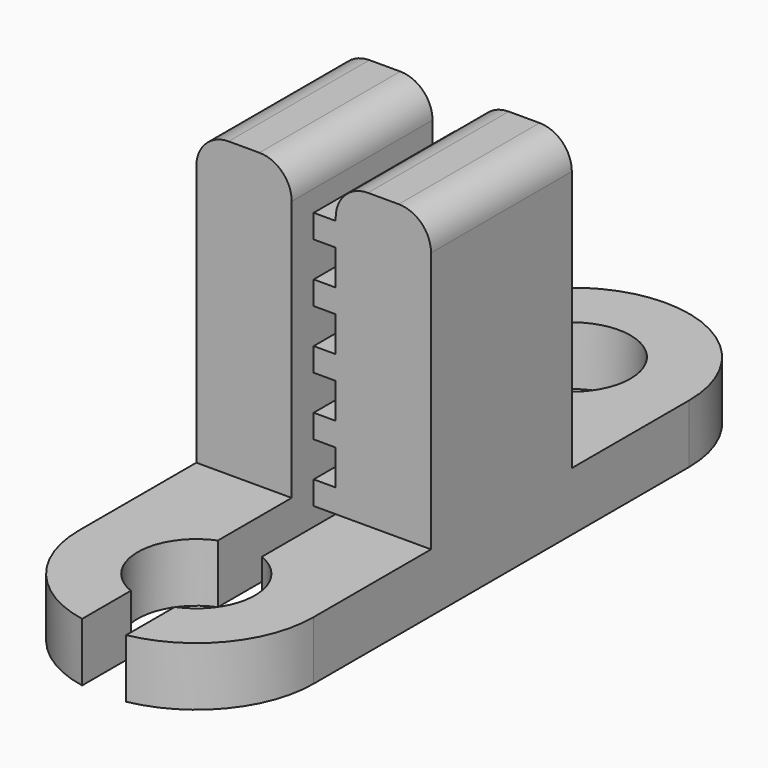
from build123d import *

# Parameters (mm, degrees)
SKETCH_R            = 2
PAD_DEPTH           = 2
SKETCH001_W         = 6
SKETCH001_H         = 10
PAD001_DEPTH        = 4
SKETCH002_W         = 1.5
SKETCH002_H         = 15.5
POCKET_DEPTH        = 2
POCKET001_DEPTH     = 3.5
LINEARPATTERN_COUNT = 7
LINEARPATTERN_PITCH = 2
FILLET_R            = 1.1


with BuildPart() as part:
    # Sketch → Pad (new body)
    with BuildSketch(Plane.XY):
        with BuildLine():
            ThreePointArc((4, 8), (0, 12), (-4, 8))
            Line((-4, 8), (-4, -8))
            ThreePointArc((-4, -8), (0, -12), (4, -8))
            Line((4, 8), (4, -8))
        make_face()
        with Locations((0, 8)):
            Circle(SKETCH_R, mode=Mode.SUBTRACT)
        with Locations((0, -8)):
            Circle(SKETCH_R, mode=Mode.SUBTRACT)
    extrude(amount=PAD_DEPTH)

    # Sketch001 → Pad001 (join, symmetric)
    with BuildSketch(Plane.YZ):
        with Locations((0, 7)):
            Rectangle(SKETCH001_W, SKETCH001_H)
    extrude(amount=PAD001_DEPTH, both=True)

    # Sketch002 → Pocket (cut)
    with BuildSketch(Plane.XY):
        with Locations((0, -4.25)):
            Rectangle(SKETCH002_W, SKETCH002_H)
    extrude(amount=POCKET_DEPTH, mode=Mode.SUBTRACT)

    # Sketch003 → Pocket001 (cut, symmetric)
    with BuildSketch(Plane.XZ):
        Polygon((0, -1.2), (0, -2), (-0.75, -2), (-0.75, 0), (0.75, 0), (0.75, -1.2), align=None)
    pocket001 = extrude(amount=POCKET001_DEPTH, both=True, mode=Mode.SUBTRACT)

    # LinearPattern: Pocket001 ×7
    with Locations(*[(0, 0, i * LINEARPATTERN_PITCH) for i in range(1, LINEARPATTERN_COUNT)]):
        add(pocket001, mode=Mode.SUBTRACT)

    # Fillet
    fillet_edges = [part.edges().sort_by_distance(p)[0] for p in [
        (4, 0, 12),
        (0.75, 0, 12),
        (-0.75, 0, 12),
        (-4, 0, 12),
    ]]
    fillet(fillet_edges, radius=FILLET_R)


solid = part.part
